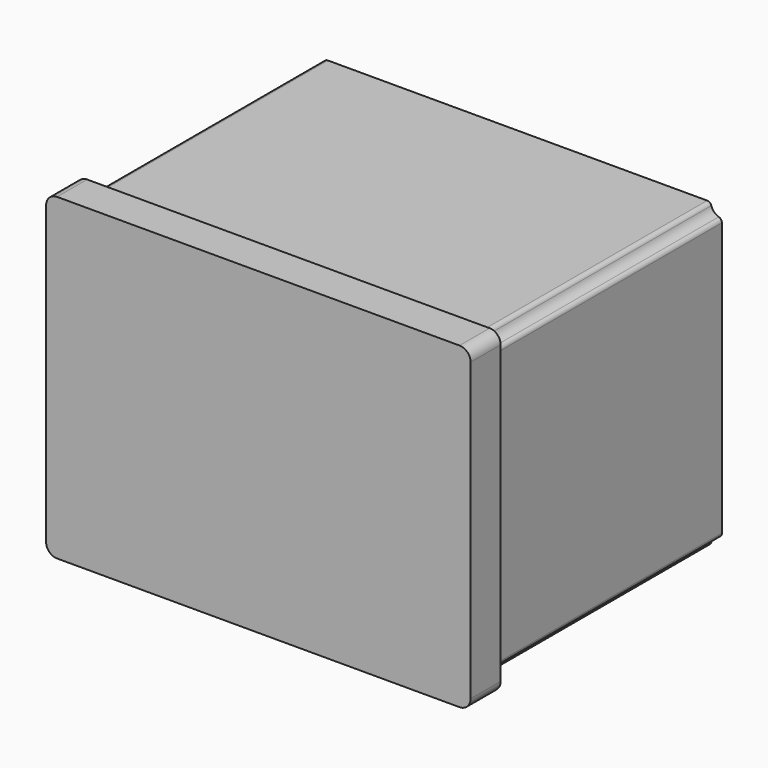
from build123d import *

# Parameters (mm, degrees)
F0_W     = 192
F0_H     = 144
F1_DEPTH = 17
F3_DEPTH = 129.54
F4_R     = 2
F5_R     = 5
F6_R     = 1.5
F7_DEPTH = 3
F6_R_2   = 4.064
F8_DEPTH = 1
F9_DEPTH = 3


with BuildPart() as f1:
    # F0 (on Front) → F1 (new body)
    with BuildSketch(Plane.XZ):
        Rectangle(F0_W, F0_H)
    extrude(amount=F1_DEPTH)

    # F2 (on face) → F3 (join)
    with BuildSketch(Plane(origin=(0, 0, 0), x_dir=(-1, 0, 0), z_dir=(0, 1, 0))):
        with BuildLine():
            ThreePointArc((-92.455, -63.455), (-88.9194660941, -64.9194660941), (-87.455, -68.455))
            Line((-87.455, -68.455), (87.455, -68.455))
            ThreePointArc((87.455, -68.455), (88.9194660941, -64.9194660941), (92.455, -63.455))
            Line((92.455, -63.455), (92.455, 63.455))
            ThreePointArc((92.455, 63.455), (88.9194660941, 64.9194660941), (87.455, 68.455))
            Line((87.455, 68.455), (-87.455, 68.455))
            ThreePointArc((-87.455, 68.455), (-88.9194660941, 64.9194660941), (-92.455, 63.455))
            Line((-92.455, 63.455), (-92.455, -63.455))
        make_face()
    extrude(amount=F3_DEPTH)

    # F4
    f4_edges = [f1.edges().sort_by_distance(p)[0] for p in [
        (-87.455, 64.77, 68.455),
        (-92.455, 64.77, 63.455),
        (-92.455, 64.77, -63.455),
        (-87.455, 64.77, -68.455),
        (87.455, 64.77, -68.455),
        (92.455, 64.77, -63.455),
        (92.455, 64.77, 63.455),
        (87.455, 64.77, 68.455),
    ]]
    fillet(f4_edges, radius=F4_R)

    # F5
    f5_edges = [f1.edges().sort_by_distance(p)[0] for p in [
        (96, -8.5, 72),
        (-96, -8.5, 72),
        (-96, -8.5, -72),
        (96, -8.5, -72),
    ]]
    fillet(f5_edges, radius=F5_R)

    # F6 (on face) → F7 (cut)
    with BuildSketch(Plane(origin=(0, 129.54, 0), x_dir=(-1, 0, 0), z_dir=(0, 1, 0))):
        with Locations((-73.405, 55.755)):
            Circle(F6_R)
        with Locations((-37.337, 55.755)):
            Circle(F6_R)
        with Locations((-13.461, 55.755)):
            Circle(F6_R)
        with Locations((-73.405, 9.781)):
            Circle(F6_R)
        with Locations((-37.337, 9.781)):
            Circle(F6_R)
        with Locations((-13.461, 9.781)):
            Circle(F6_R)
        with Locations((-73.405, -10.285)):
            Circle(F6_R)
        with Locations((-13.461, -56.259)):
            Circle(F6_R)
        with Locations((-37.337, -10.285)):
            Circle(F6_R)
        with Locations((-13.461, -10.285)):
            Circle(F6_R)
        with Locations((-73.405, -56.259)):
            Circle(F6_R)
        with Locations((-37.337, -56.259)):
            Circle(F6_R)
        with Locations((10.413, 46.865)):
            Circle(F6_R)
        with Locations((10.413, 16.385)):
            Circle(F6_R)
        with Locations((58.419, 50.167)):
            Circle(F6_R)
        with Locations((58.419, 0.167)):
            Circle(F6_R)
        with Locations((58.419, -7.745)):
            Circle(F6_R)
        with Locations((58.419, -57.745)):
            Circle(F6_R)
        with Locations((35.813, 1.141)):
            Circle(F6_R)
        with Locations((35.813, -14.353)):
            Circle(F6_R)
    extrude(amount=-F7_DEPTH, mode=Mode.SUBTRACT)

    # F6 (on face) → F8 (join)
    with BuildSketch(Plane(origin=(0, 129.54, 0), x_dir=(-1, 0, 0), z_dir=(0, 1, 0))):
        with Locations((58.955, 58.295)):
            Circle(F6_R_2)
        Polygon((62.0074588497, 59.9328324002), (61.8996338905, 56.4704092923), (58.8471750409, 54.8325768921), (55.9025411503, 56.6571675998), (56.0103661095, 60.1195907077), (59.0628249591, 61.7574231079), align=None, mode=Mode.SUBTRACT)
        Polygon((58.8471750409, 54.8325768921), (61.8996338905, 56.4704092923), (62.0074588497, 59.9328324002), (59.0628249591, 61.7574231079), (56.0103661095, 60.1195907077), (55.9025411503, 56.6571675998), align=None)
    extrude(amount=F8_DEPTH)

    # F6 (on face) → F9 (join)
    with BuildSketch(Plane(origin=(0, 129.54, 0), x_dir=(-1, 0, 0), z_dir=(0, 1, 0))):
        Polygon((58.8471750409, 54.8325768921), (61.8996338905, 56.4704092923), (62.0074588497, 59.9328324002), (59.0628249591, 61.7574231079), (56.0103661095, 60.1195907077), (55.9025411503, 56.6571675998), align=None)
    extrude(amount=F9_DEPTH)


solid = f1.part
